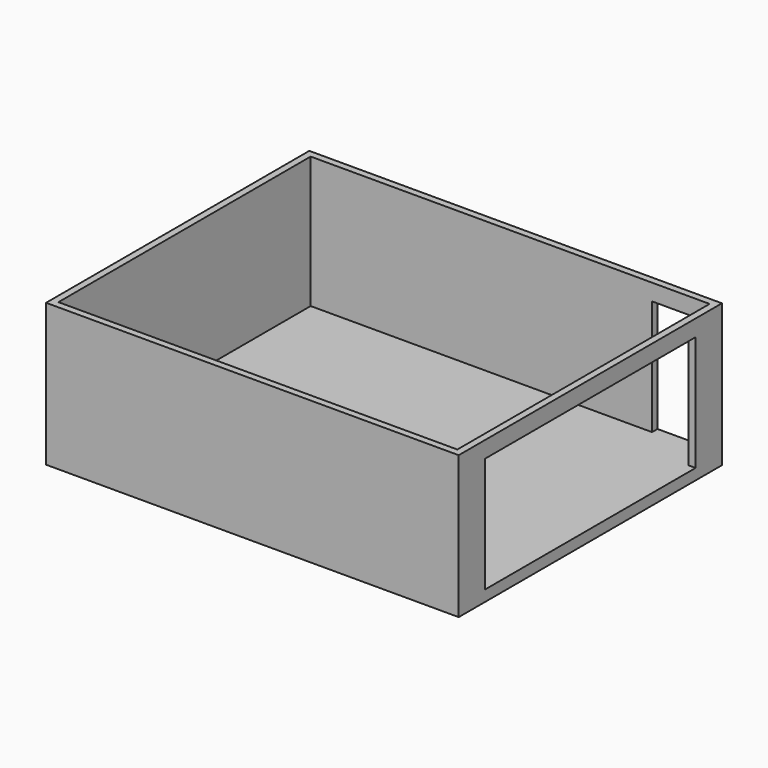
from build123d import *

# Parameters (mm, degrees)
F0_W     = 7645.4
F0_H     = 6096
F1_DEPTH = 2641.6
F2_W     = 7391.4
F2_H     = 5842
F3_DEPTH = 2438.4
F4_W     = 4876.8
F4_H     = 2133.6
F5_DEPTH = 127
F6_W     = 914.4
F6_H     = 2133.6
F7_DEPTH = 127


with BuildPart() as f1:
    # F0 (on Top) → F1 (new body)
    with BuildSketch(Plane.XY):
        with Locations((3822.7, 3048)):
            Rectangle(F0_W, F0_H)
    extrude(amount=F1_DEPTH)

    # F2 (on face) → F3 (cut)
    with BuildSketch(Plane.XY.offset(2641.6)):
        with Locations((3822.7, 3048)):
            Rectangle(F2_W, F2_H)
    extrude(amount=-F3_DEPTH, mode=Mode.SUBTRACT)

    # F4 (on face) → F5 (cut, through all)
    with BuildSketch(Plane(origin=(7518.4, 0, 0), x_dir=(0, -1, 0), z_dir=(-1, 0, 0))):
        with Locations((-3048, 1270)):
            Rectangle(F4_W, F4_H)
    extrude(amount=-F5_DEPTH, mode=Mode.SUBTRACT)

    # F6 (on face) → F7 (cut, through all)
    with BuildSketch(Plane.XZ.offset(-5969)):
        with Locations((6908.8, 1270)):
            Rectangle(F6_W, F6_H)
    extrude(amount=-F7_DEPTH, mode=Mode.SUBTRACT)


solid = f1.part
